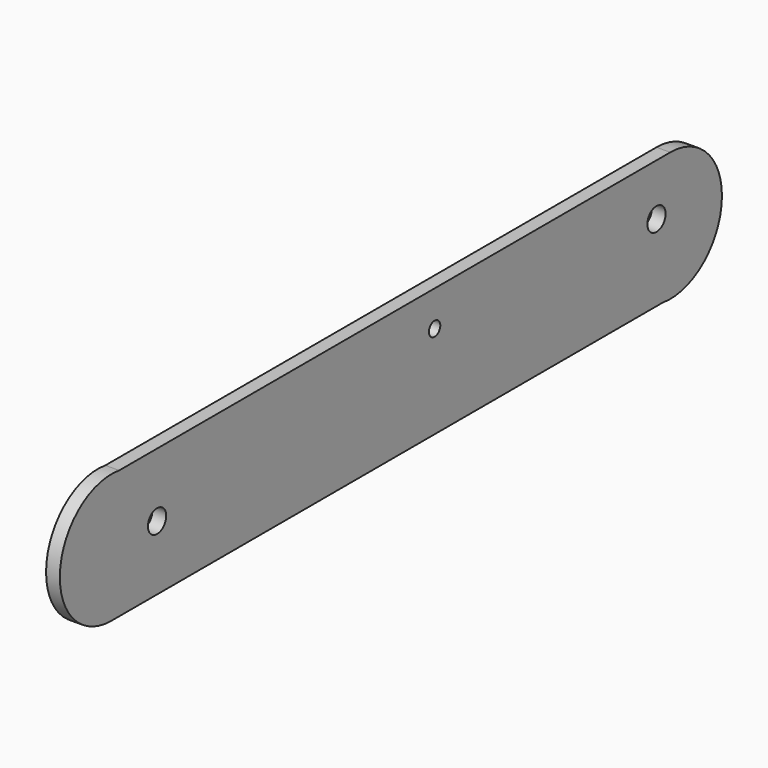
from build123d import *

# Parameters (mm, degrees)
F0_R     = 2.65
F0_R_2   = 1.65
F1_DEPTH = 3.2


with BuildPart() as f1:
    # F0 (on Right) → F1 (new body)
    with BuildSketch(Plane.YZ):
        with BuildLine():
            Line((64.938191, 24.437672), (-95.061809, 24.437672))
            ThreePointArc((-95.061809, 24.437672), (-112.245845, 10.719593), (-97.28741, -5.396299))
            Line((-97.28741, -5.396299), (62.71259, -5.396299))
            ThreePointArc((62.71259, -5.396299), (79.896626, 8.321779), (64.938191, 24.437672))
        make_face()
        with Locations((-84.061809, 9.603701)):
            Circle(F0_R, mode=Mode.SUBTRACT)
        with Locations((-3.478033, 16.19295)):
            Circle(F0_R_2, mode=Mode.SUBTRACT)
        with Locations((60.938191, 12.437672)):
            Circle(F0_R, mode=Mode.SUBTRACT)
    extrude(amount=F1_DEPTH)


solid = f1.part
